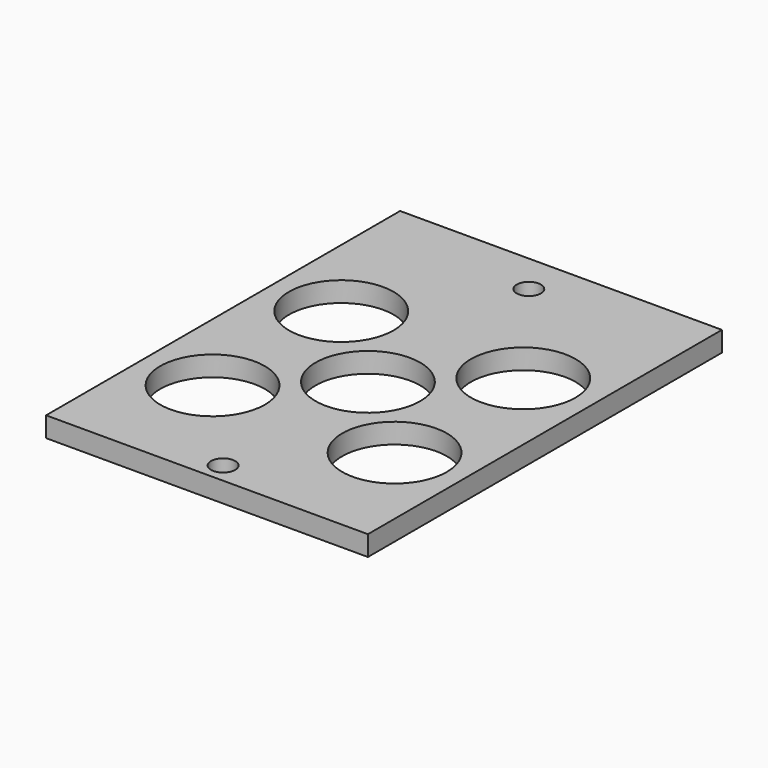
from build123d import *

# Parameters (mm, degrees)
F0_W     = 50.8
F0_H     = 50.8
F0_R     = 8.255
F0_R_2   = 1.905
F0_H_2   = 6.35
F1_DEPTH = 3.175


with BuildPart() as f1:
    # F0 (on Top) → F1 (new body)
    with BuildSketch(Plane.XY):
        Rectangle(F0_W, F0_H)
        with Locations((-14.365858, -12.7)):
            Circle(F0_R, mode=Mode.SUBTRACT)
        Circle(F0_R, mode=Mode.SUBTRACT)
        with Locations((14.365858, -12.7)):
            Circle(F0_R, mode=Mode.SUBTRACT)
        with Locations((-14.365858, 12.7)):
            Circle(F0_R, mode=Mode.SUBTRACT)
        with Locations((14.365858, 12.7)):
            Circle(F0_R, mode=Mode.SUBTRACT)
        Polygon((-25.4, 31.750001), (-25.4, 25.4), (25.4, 25.4), (25.4, 31.750001), (25.4, 38.100001), (14.365858, 38.100001), (-14.365858, 38.100001), (-25.4, 38.100001), align=None)
        with Locations((0, 31.750001)):
            Circle(F0_R_2, mode=Mode.SUBTRACT)
        with Locations((0, -28.575)):
            Rectangle(F0_W, F0_H_2)
        with Locations((0, -28.575)):
            Circle(F0_R_2, mode=Mode.SUBTRACT)
    extrude(amount=F1_DEPTH)


solid = f1.part
